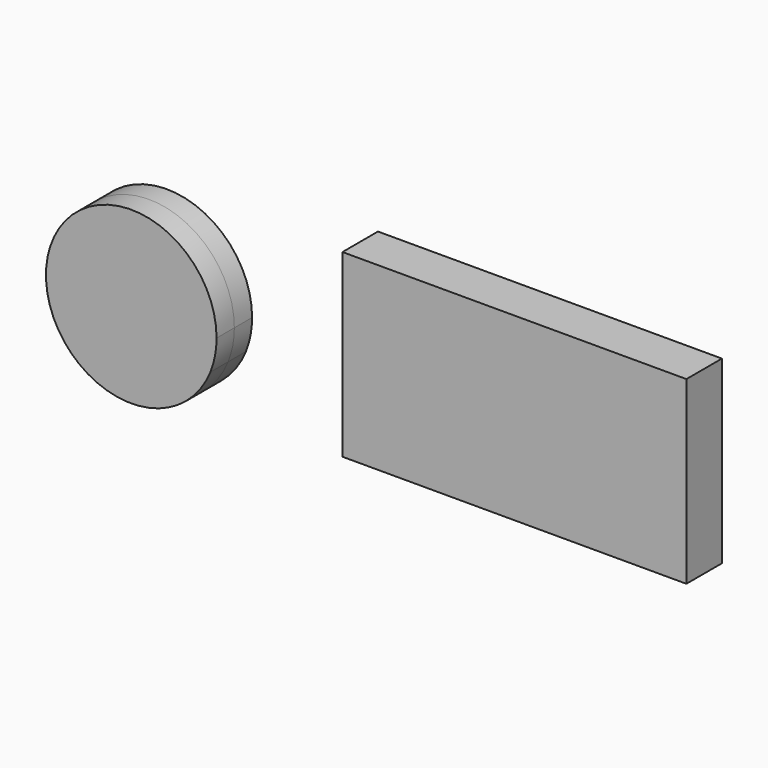
from build123d import *

# Parameters (mm, degrees)
F0_W     = 136.9225755334
F0_H     = 26.7549809068
F0_W_2   = 28.3287912607
F0_H_2   = 50.3623280674
F0_W_3   = 31.4764454961
F0_H_3   = 25.9680747986
F1_DEPTH = 12.7


with BuildPart() as f1:
    # F0 (on Front) → F1 (new body, symmetric)
    with BuildSketch(Plane.XZ):
        with Locations((-1.5738271177, 38.165201433)):
            Rectangle(F0_W, F0_H)
        with Locations((-84.1995105147, 38.165201433)):
            Rectangle(F0_W_2, F0_H)
        with Locations((-84.1995105147, -0.3934530541)):
            Rectangle(F0_W_2, F0_H_2)
        with Locations((-1.5738271177, -0.3934530541)):
            Rectangle(F0_W, F0_H_2)
        with Locations((82.6256833971, 38.165201433)):
            Rectangle(F0_W_3, F0_H)
        with Locations((82.6256833971, -0.3934530541)):
            Rectangle(F0_W_3, F0_H_2)
        with Locations((82.6256833971, -38.5586544871)):
            Rectangle(F0_W_3, F0_H_3)
        with Locations((-1.5738271177, -38.5586544871)):
            Rectangle(F0_W, F0_H_3)
        with Locations((-84.1995105147, -38.5586544871)):
            Rectangle(F0_W_2, F0_H_3)
    extrude(amount=F1_DEPTH, both=True)


with BuildPart() as f1b:
    # F0 (on Front) → F1, piece 2 (new body, symmetric)
    with BuildSketch(Plane.XZ):
        with BuildLine():
            ThreePointArc((-230.5650413036, 32.2633683681), (-262.5354419998, 7.1610460712), (-264.4022405148, -33.4437340498))
            Line((-264.4022405148, -33.4437340498), (-230.5650413036, 32.2633683681))
        make_face()
        with BuildLine():
            ThreePointArc((-170.359956314, -15.1786736164), (-188.9540026437, 23.1469040253), (-230.5650413036, 32.2633683681))
            Line((-230.5650413036, 32.2633683681), (-173.9074289799, -33.4437340498))
            ThreePointArc((-173.9074289799, -33.4437340498), (-171.2550339901, -24.481858487), (-170.359956314, -15.1786736164))
        make_face()
        Polygon((-230.5650413036, 32.2633683681), (-264.4022405148, -33.4437340498), (-173.9074289799, -33.4437340498), align=None)
        with BuildLine():
            Line((-173.9074289799, -33.4437340498), (-264.4022405148, -33.4437340498))
            ThreePointArc((-264.4022405148, -33.4437340498), (-219.1548347473, -63.9735520497), (-173.9074289799, -33.4437340498))
        make_face()
    extrude(amount=F1_DEPTH, both=True)


solid = Compound([f1.part, f1b.part])
